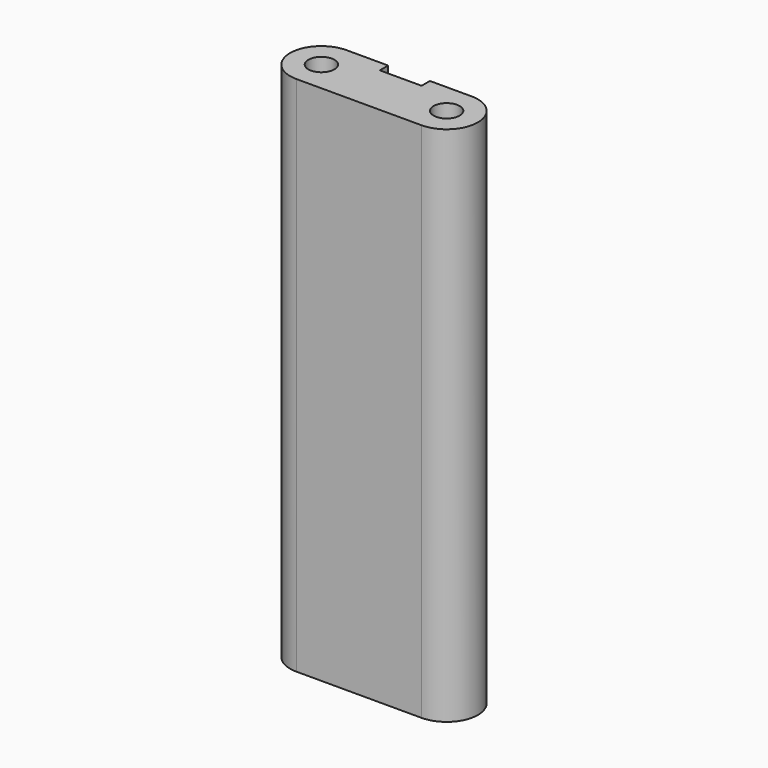
from build123d import *

# Parameters (mm, degrees)
F0_R     = 0.625
F1_DEPTH = 25


with BuildPart() as f1:
    # F0 (on Top) → F1 (new body)
    with BuildSketch(Plane.XY):
        with BuildLine():
            Line((-46.480455, 27.541292), (-40.480455, 27.541292))
            ThreePointArc((-40.480455, 27.541292), (-38.980455, 29.041292), (-40.480455, 30.541292))
            Line((-40.480455, 30.541292), (-42.480455, 30.541292))
            Line((-42.480455, 30.541292), (-42.480455, 30.041292))
            Line((-42.480455, 30.041292), (-44.480455, 30.041292))
            Line((-44.480455, 30.041292), (-44.480455, 30.541292))
            Line((-44.480455, 30.541292), (-46.480455, 30.541292))
            ThreePointArc((-46.480455, 30.541292), (-47.980455, 29.041292), (-46.480455, 27.541292))
        make_face()
        with Locations((-46.480455, 29.041292)):
            Circle(F0_R, mode=Mode.SUBTRACT)
        with Locations((-40.480455, 29.041292)):
            Circle(F0_R, mode=Mode.SUBTRACT)
    extrude(amount=F1_DEPTH)


solid = f1.part
